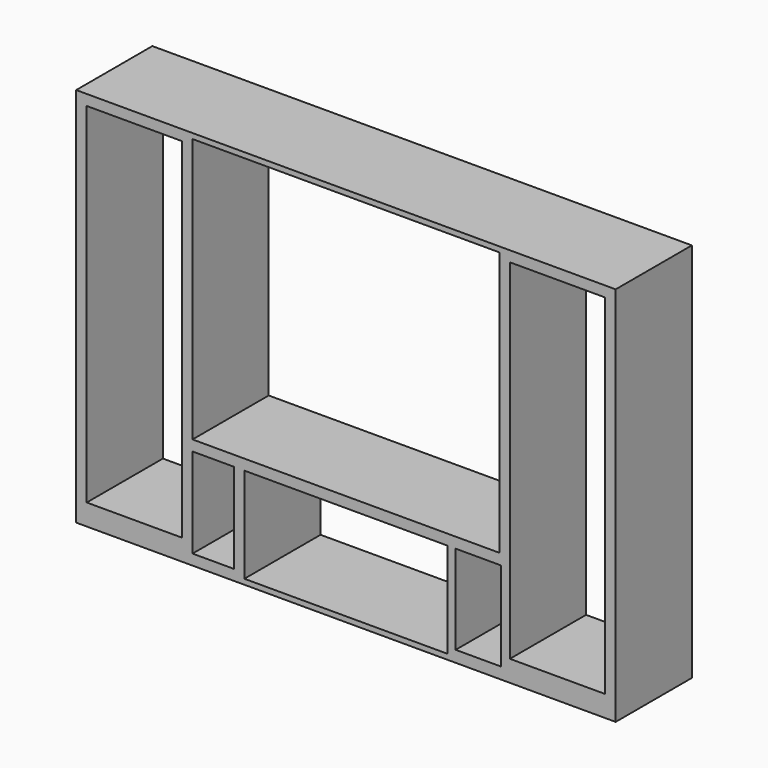
from build123d import *

# Parameters (mm, degrees)
F0_W      = 1524
F0_H      = 1828.8
F1_DEPTH  = 457.2
F2_W      = 1473.2
F2_H      = 1270
F3_DEPTH  = 457.201
F4_W      = 975.36
F4_H      = 457.2
F5_DEPTH  = 457.201
F6_W      = 457.2
F6_H      = 1828.8
F7_DEPTH  = 533.4
F8_W      = 457.2
F8_H      = 1828.8
F9_DEPTH  = 533.4
F10_W     = 457.2
F10_H     = 1676.4
F11_DEPTH = 457.201
F12_W     = 457.2
F12_H     = 1676.4
F13_DEPTH = 457.201
F14_W     = 198.12
F14_H     = 431.8
F15_DEPTH = 457.201
F16_W     = 218.209088
F16_H     = 427.608116
F17_DEPTH = 457.201


with BuildPart() as f1:
    # F0 (on Front) → F1 (new body)
    with BuildSketch(Plane.XZ):
        with Locations((3.776696, 107.083714)):
            Rectangle(F0_W, F0_H)
    extrude(amount=F1_DEPTH)

    # F2 (on face) → F3 (cut, through all)
    with BuildSketch(Plane.XZ.offset(457.2)):
        with Locations((3.776696, 361.083714)):
            Rectangle(F2_W, F2_H)
    extrude(amount=-F3_DEPTH, mode=Mode.SUBTRACT)

    # F4 (on face) → F5 (cut, through all)
    with BuildSketch(Plane.XZ.offset(457.2)):
        with Locations((3.776696, -553.316286)):
            Rectangle(F4_W, F4_H)
    extrude(amount=-F5_DEPTH, mode=Mode.SUBTRACT)

    # F6 (on face) → F7 (join)
    with BuildSketch(Plane.YZ.offset(765.776696)):
        with Locations((-228.6, 107.083714)):
            Rectangle(F6_W, F6_H)
    extrude(amount=F7_DEPTH)

    # F8 (on face) → F9 (join)
    with BuildSketch(Plane(origin=(-758.223304, 0, 0), x_dir=(0, -1, 0), z_dir=(-1, 0, 0))):
        with Locations((228.6, 107.083714)):
            Rectangle(F8_W, F8_H)
    extrude(amount=F9_DEPTH)

    # F10 (on face) → F11 (cut, through all)
    with BuildSketch(Plane.XZ.offset(457.2)):
        with Locations((-1012.223304, 132.483714)):
            Rectangle(F10_W, F10_H)
    extrude(amount=-F11_DEPTH, mode=Mode.SUBTRACT)

    # F12 (on face) → F13 (cut, through all)
    with BuildSketch(Plane.XZ.offset(457.2)):
        with Locations((1019.776696, 132.483714)):
            Rectangle(F12_W, F12_H)
    extrude(amount=-F13_DEPTH, mode=Mode.SUBTRACT)

    # F14 (on face) → F15 (cut, through all)
    with BuildSketch(Plane.XZ.offset(457.2)):
        with Locations((-633.763304, -540.616286)):
            Rectangle(F14_W, F14_H)
    extrude(amount=-F15_DEPTH, mode=Mode.SUBTRACT)

    # F16 (on face) → F17 (cut, through all)
    with BuildSketch(Plane.XZ.offset(457.2)):
        with Locations((639.940113, -538.520344)):
            Rectangle(F16_W, F16_H)
    extrude(amount=-F17_DEPTH, mode=Mode.SUBTRACT)


solid = f1.part
